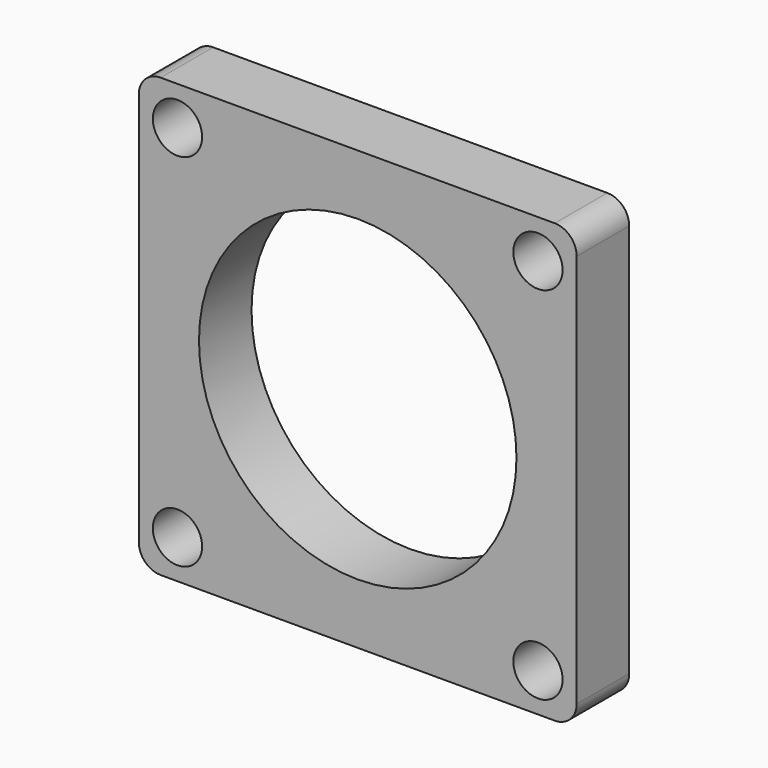
from build123d import *

# Parameters (mm, degrees)
F0_W     = 40
F0_H     = 40
F0_R     = 2.25
F0_R_2   = 14.5
F1_DEPTH = 6
F2_R     = 2


with BuildPart() as f1:
    # F0 (on Front) → F1 (new body)
    with BuildSketch(Plane.XZ):
        Rectangle(F0_W, F0_H)
        with Locations((-16.464466, -16.464466)):
            Circle(F0_R, mode=Mode.SUBTRACT)
        with Locations((16.464466, -16.464466)):
            Circle(F0_R, mode=Mode.SUBTRACT)
        with Locations((-16.464466, 16.464466)):
            Circle(F0_R, mode=Mode.SUBTRACT)
        Circle(F0_R_2, mode=Mode.SUBTRACT)
        with Locations((16.464466, 16.464466)):
            Circle(F0_R, mode=Mode.SUBTRACT)
    extrude(amount=F1_DEPTH)

    # F2
    f2_edges = [f1.edges().sort_by_distance(p)[0] for p in [
        (-20, -3, 20),
        (20, -3, 20),
        (20, -3, -20),
        (-20, -3, -20),
    ]]
    fillet(f2_edges, radius=F2_R)


solid = f1.part
